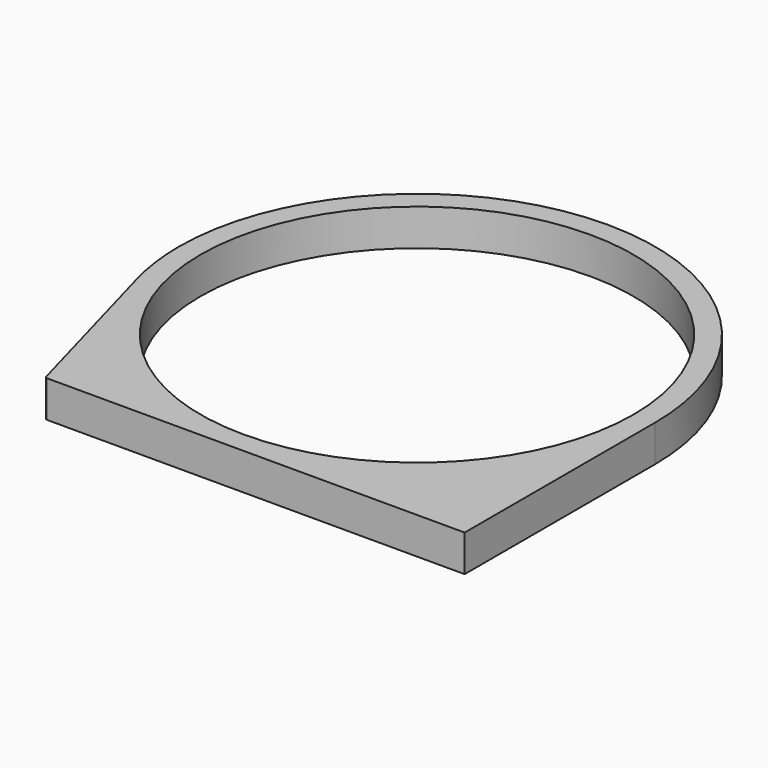
from build123d import *

# Parameters (mm, degrees)
F0_R     = 150
F1_DEPTH = 25.4


with BuildPart() as f1:
    # F0 (on Top) → F1 (new body)
    with BuildSketch(Plane.XY):
        with BuildLine():
            Line((0, -165), (165, -165))
            Line((165, -165), (165, 0))
            ThreePointArc((165, 0), (0, 165), (-165, 0))
            ThreePointArc((-165, 0), (-163.501083, -22.189996), (-159.031564, -43.976829))
            Line((-159.031564, -43.976829), (-125.970809, -163.533052))
            ThreePointArc((-125.970809, -163.533052), (-125.25433, -164.591557), (-124.043154, -165))
            Line((-124.043154, -165), (0, -165))
        make_face()
        Circle(F0_R, mode=Mode.SUBTRACT)
    extrude(amount=F1_DEPTH)


solid = f1.part
